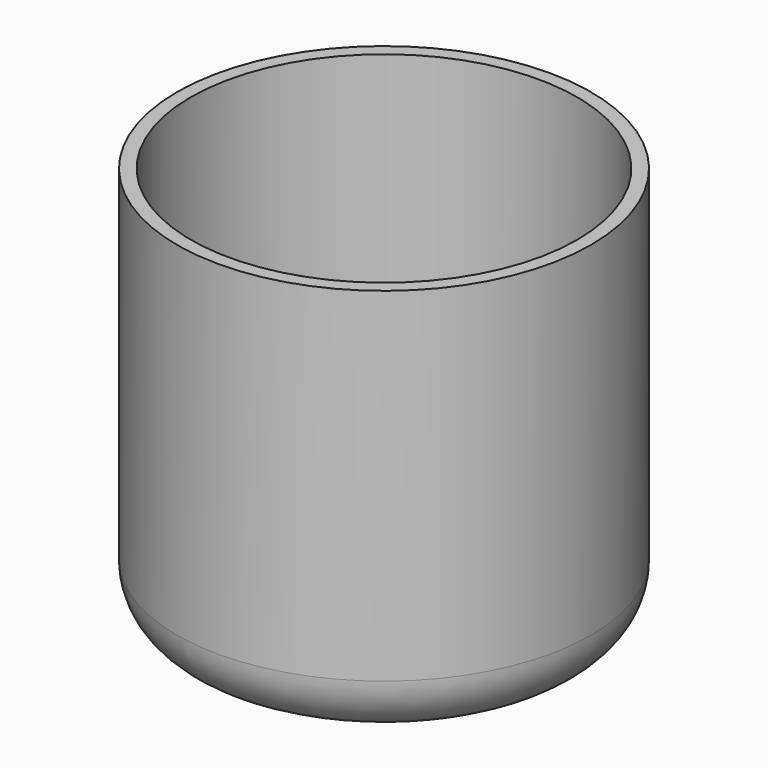
from build123d import *


with BuildPart() as f1:
    # F0 (on Front) → F1 (revolve)
    with BuildSketch(Plane.XZ):
        with BuildLine():
            Line((-177.8, 158.115), (-190.5, 158.115))
            Line((-190.5, 158.115), (-190.5, -158.115))
            ThreePointArc((-190.5, -158.115), (-180.416076, -189.698492), (-153.895697, -209.595025))
            ThreePointArc((-153.895697, -209.595025), (-78.037434, -229.041827), (0, -235.585))
            Line((0, -235.585), (0, -222.885))
            ThreePointArc((0, -222.885), (-75.922598, -216.519149), (-149.725082, -197.59936))
            ThreePointArc((-149.725082, -197.59936), (-170.065791, -182.339036), (-177.8, -158.115))
            Line((-177.8, -158.115), (-177.8, 158.115))
        make_face()
    revolve(axis=Axis((0, 0, 0), (0, 0, -1)))


solid = f1.part
